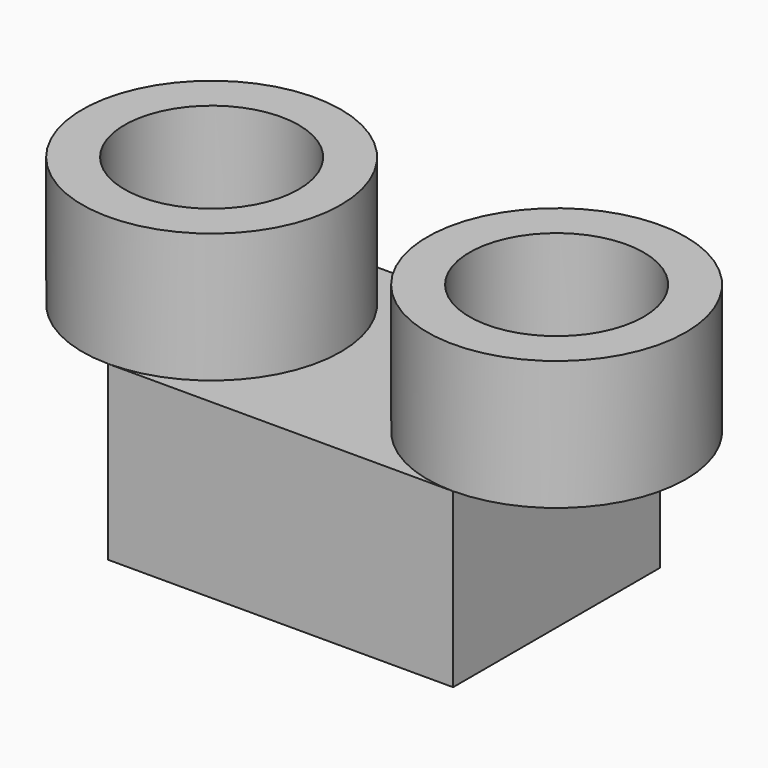
from build123d import *

# Parameters (mm, degrees)
F0_W     = 4000
F0_H     = 3000
F1_DEPTH = 2000
F2_R     = 1498.751295
F2_R_2   = 1010.379159
F3_DEPTH = 1500


with BuildPart() as f1:
    # F0 (on Top) → F1 (new body)
    with BuildSketch(Plane.XY):
        Rectangle(F0_W, F0_H)
    extrude(amount=F1_DEPTH)

    # F2 (on face) → F3 (join)
    with BuildSketch(Plane.XY.offset(2000)):
        with Locations((-2000, 0)):
            Circle(F2_R)
        with Locations((-2000, 0)):
            Circle(F2_R_2, mode=Mode.SUBTRACT)
        with Locations((2000, 0)):
            Circle(F2_R)
        with Locations((2000, 0)):
            Circle(F2_R_2, mode=Mode.SUBTRACT)
    extrude(amount=F3_DEPTH)


solid = f1.part
